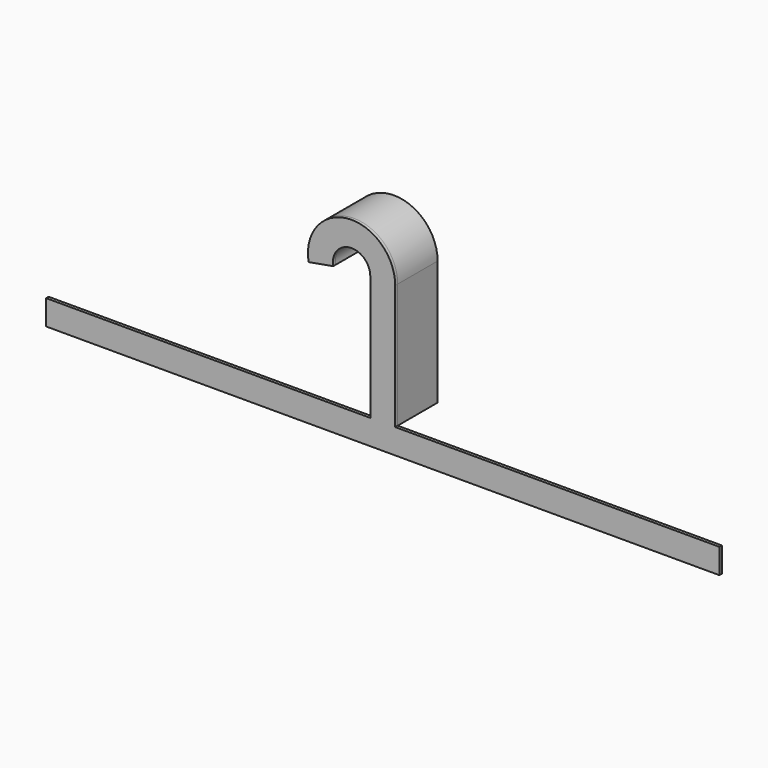
from build123d import *

# Parameters (mm, degrees)
F0_W     = 25.4
F0_H     = 127
F1_DEPTH = 1.5875
F2_W     = 25.4
F2_H     = 3.175
F3_ANGLE = 190
F4_W     = 342.9
F4_H     = 25.4
F5_DEPTH = 3.175
F6_W     = 342.9
F6_H     = 25.4
F7_DEPTH = 3.175
F9_DEPTH = 50.8


with BuildPart() as f1:
    # F0 (on Front) → F1 (new body, symmetric)
    with BuildSketch(Plane.XZ):
        Rectangle(F0_W, F0_H)
    extrude(amount=F1_DEPTH, both=True)

    # F2 (on face) → F3 (revolve)
    with BuildSketch(Plane.XY.offset(63.5)):
        Rectangle(F2_W, F2_H)
    revolve(axis=Axis((-31.75, 5.55625, 63.5), (0, -1, 0)), revolution_arc=F3_ANGLE)

    # F4 (on face) → F5 (join)
    with BuildSketch(Plane.XZ.offset(1.5875)):
        with Locations((171.45, -76.2)):
            Rectangle(F4_W, F4_H)
    extrude(amount=-F5_DEPTH)

    # F6 (on face) → F7 (join)
    with BuildSketch(Plane.XZ.offset(1.5875)):
        with Locations((-171.45, -76.2)):
            Rectangle(F6_W, F6_H)
    extrude(amount=-F7_DEPTH)


with BuildPart() as f9:
    # F8 (on face) → F9 (new body)
    with BuildSketch(Plane(origin=(0, 1.5875, 0), x_dir=(-1, 0, 0), z_dir=(0, 1, 0))):
        with BuildLine():
            Line((50.510588, 60.192002), (75.524705, 55.781339))
            ThreePointArc((75.524705, 55.781339), (35.624073, 107.780854), (-12.7, 63.5))
            Line((-12.7, 63.5), (-12.7, -63.5))
            Line((-12.7, -63.5), (-9.525, -63.5))
            Line((-9.525, -63.5), (-9.525, 63.5))
            ThreePointArc((-9.525, 63.5), (33.762056, 104.725929), (72.828834, 59.480673))
            Line((72.828834, 59.480673), (53.964194, 62.807018))
            ThreePointArc((53.964194, 62.807018), (32.096533, 85.722298), (9.525, 63.5))
            Line((9.525, 63.5), (9.525, -63.5))
            Line((9.525, -63.5), (12.7, -63.5))
            Line((12.7, -63.5), (12.7, 63.5))
            ThreePointArc((12.7, 63.5), (33.410317, 82.477509), (50.510588, 60.192002))
        make_face()
    extrude(amount=F9_DEPTH)


solid = Compound([f1.part, f9.part])
